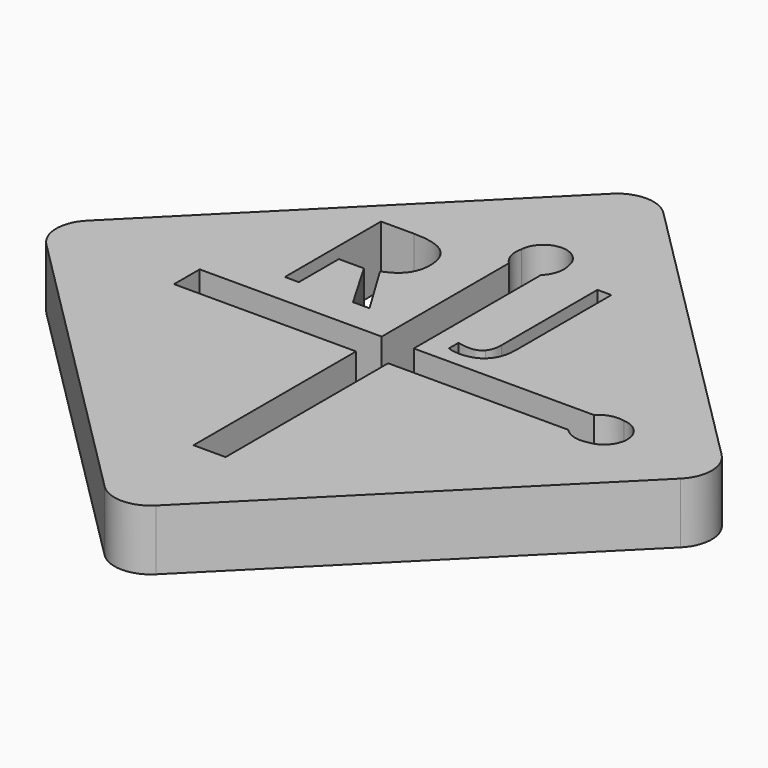
from build123d import *

# Parameters (mm, degrees)
F1_DEPTH = 2.5
F2_R     = 0.85
F3_DEPTH = 12.5


with BuildPart() as f1:
    # F0 (on Top) → F1 (new body)
    with BuildSketch(Plane.XY):
        with BuildLine():
            Line((13.081475452, -13.081475452), (1.0606601718, -1.0606601718))
            ThreePointArc((1.0606601718, -1.0606601718), (0, -0.6213203436), (-1.0606601718, -1.0606601718))
            Line((-1.0606601718, -1.0606601718), (-13.081475452, -13.081475452))
            ThreePointArc((-13.081475452, -13.081475452), (-13.5208152802, -14.1421356237), (-13.081475452, -15.2027957955))
            Line((-13.081475452, -15.2027957955), (-1.0606601718, -27.2236110757))
            ThreePointArc((-1.0606601718, -27.2236110757), (0, -27.6629509039), (1.0606601718, -27.2236110757))
            Line((1.0606601718, -27.2236110757), (13.081475452, -15.2027957955))
            ThreePointArc((13.081475452, -15.2027957955), (13.5208152802, -14.1421356237), (13.081475452, -13.081475452))
        make_face()
        with BuildLine():
            Line((-4.0470226145, -10.1208059821), (-5.0821788645, -10.1208059821))
            Line((-5.0821788645, -10.1208059821), (-5.0821788645, -12.1824379265))
            Line((-5.0821788645, -12.1824379265), (-5.6583507395, -12.1824379265))
            Line((-5.6583507395, -12.1824379265), (-5.6583507395, -7.2247556349))
            Line((-5.6583507395, -7.2247556349), (-4.2987587256, -7.2247556349))
            add(Edge.make_bspline(
                [(-4.2987587256, -7.2247556349), (-3.3862153229, -7.2247556349), (-2.9505599409, -7.574147996)],
                knots=[0, 0, 0, 1, 1, 1], degree=2))
            add(Edge.make_bspline(
                [(-2.9505599409, -7.574147996), (-2.514904559, -7.9235403571), (-2.514904559, -8.6255802876)],
                knots=[0, 0, 0, 1, 1, 1], degree=2))
            add(Edge.make_bspline(
                [(-2.514904559, -8.6255802876), (-2.514904559, -9.6086532043), (-3.5120833784, -9.9547903571)],
                knots=[0, 0, 0, 1, 1, 1], degree=2))
            Line((-3.5120833784, -9.9547903571), (-2.1655121979, -12.1824379265))
            Line((-2.1655121979, -12.1824379265), (-2.846935809, -12.1824379265))
            Line((-2.846935809, -12.1824379265), (-4.0470226145, -10.1208059821))
        make_face(mode=Mode.SUBTRACT)
        with BuildLine():
            Line((-8.1334756687, -14.8039748892), (-8.1334756687, -13.4802963582))
            Line((-8.1334756687, -13.4802963582), (-0.6236797201, -13.4802963582))
            Line((-0.6236797201, -13.4802963582), (-0.6236797201, -6.9198086858))
            ThreePointArc((-0.6236797201, -6.9198086858), (-0.9032194318, -6.4583786209), (-0.9135835525, -5.9189782686))
            ThreePointArc((-0.9135835525, -5.9189782686), (0.0168397474, -5.0141534426), (0.9868078824, -5.876451129))
            ThreePointArc((0.9868078824, -5.876451129), (0.9900106564, -6.4384308628), (0.6999988109, -6.9198086858))
            Line((0.6999988109, -6.9198086858), (0.6999988109, -13.4802963582))
            Line((0.6999988109, -13.4802963582), (8.1334756687, -13.4802963582))
            ThreePointArc((8.1334756687, -13.4802963582), (8.5949057336, -13.2007566465), (9.134306086, -13.1903925258))
            ThreePointArc((9.134306086, -13.1903925258), (10.0391309119, -14.1208158258), (9.1768332255, -15.0907839607))
            ThreePointArc((9.1768332255, -15.0907839607), (8.6148534917, -15.0939867347), (8.1334756687, -14.8039748892))
            Line((8.1334756687, -14.8039748892), (0.6999988109, -14.8039748892))
            Line((0.6999988109, -14.8039748892), (0.6999988109, -23.1867600232))
            Line((0.6999988109, -23.1867600232), (-0.6236797201, -23.1867600232))
            Line((-0.6236797201, -23.1867600232), (-0.6236797201, -14.8039748892))
            Line((-0.6236797201, -14.8039748892), (-8.1334756687, -14.8039748892))
        make_face(mode=Mode.SUBTRACT)
        with BuildLine():
            add(Edge.make_bspline(
                [(3.0161563763, -12.5007560808), (2.690635543, -12.8550312544), (2.0797414457, -12.8550312544)],
                knots=[0, 0, 0, 1, 1, 1], degree=2))
            add(Edge.make_bspline(
                [(2.0797414457, -12.8550312544), (1.7618160985, -12.8550312544), (1.5784393624, -12.7638854211)],
                knots=[0, 0, 0, 1, 1, 1], degree=2))
            Line((1.5784393624, -12.7638854211), (1.5784393624, -12.2723489627))
            add(Edge.make_bspline(
                [(1.5784393624, -12.2723489627), (1.8193247791, -12.3396232683), (2.0797414457, -12.3396232683)],
                knots=[0, 0, 0, 1, 1, 1], degree=2))
            add(Edge.make_bspline(
                [(2.0797414457, -12.3396232683), (2.4161129735, -12.3396232683), (2.5908091541, -12.1361727474)],
                knots=[0, 0, 0, 1, 1, 1], degree=2))
            add(Edge.make_bspline(
                [(2.5908091541, -12.1361727474), (2.7655053346, -11.9327222266), (2.7655053346, -11.5496927127)],
                knots=[0, 0, 0, 1, 1, 1], degree=2))
            Line((2.7655053346, -11.5496927127), (2.7655053346, -6.5920104211))
            Line((2.7655053346, -6.5920104211), (3.3416772096, -6.5920104211))
            Line((3.3416772096, -6.5920104211), (3.3416772096, -11.5019496572))
            add(Edge.make_bspline(
                [(3.3416772096, -11.5019496572), (3.3416772096, -12.1464809072), (3.0161563763, -12.5007560808)],
                knots=[0, 0, 0, 1, 1, 1], degree=2))
        make_face(mode=Mode.SUBTRACT)
    extrude(amount=F1_DEPTH)

    # F2 (on Right) → F3 (cut, symmetric)
    with BuildSketch(Plane.YZ):
        with Locations((-2.4908210296, 1.292226194)):
            Circle(F2_R)
    extrude(amount=F3_DEPTH, both=True, mode=Mode.SUBTRACT)


solid = f1.part
